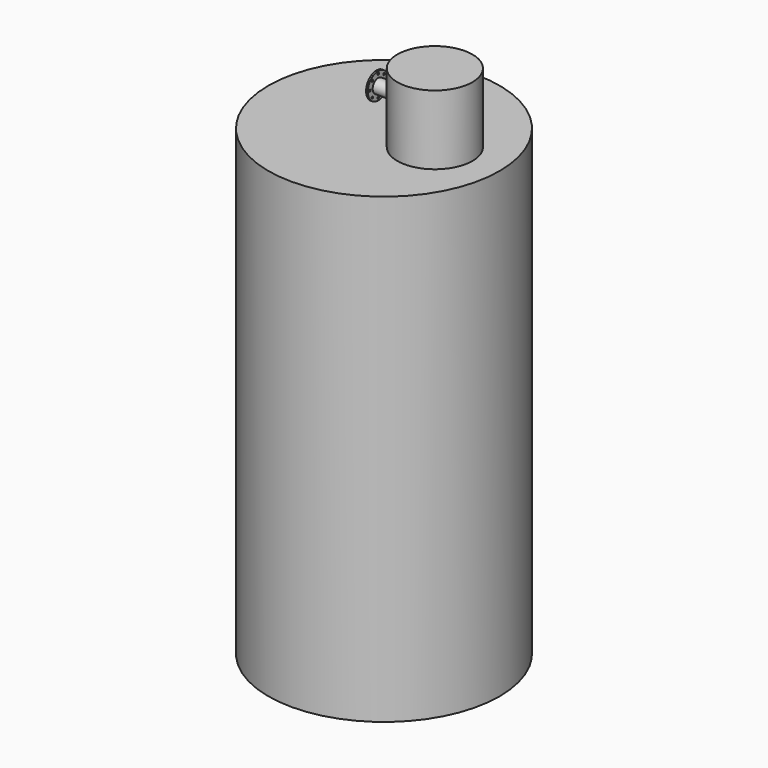
from build123d import *

# Parameters (mm, degrees)
F0_R      = 1000
F1_DEPTH  = 4000
F2_R      = 325
F3_DEPTH  = 600
F5_R      = 60
F6_DEPTH  = 250
F7_R      = 112.5
F7_R_2    = 60
F8_DEPTH  = 15
F9_R      = 50
F10_DEPTH = 500
F11_R     = 9
F12_DEPTH = 25


with BuildPart() as f1:
    # F0 (on Top) → F1 (new body)
    with BuildSketch(Plane.XY):
        Circle(F0_R)
    extrude(amount=F1_DEPTH)

    # F2 (on face) → F3 (join)
    with BuildSketch(Plane.XY.offset(4000)):
        with Locations((439.880490303, 0)):
            Circle(F2_R)
    extrude(amount=F3_DEPTH)

    # F5 (on offset) → F6 (join)
    with BuildSketch(Plane.YZ.offset(200)):
        with Locations((0, 4307.6138496399)):
            Circle(F5_R)
    extrude(amount=-F6_DEPTH)

    # F7 (on face) → F8 (join)
    with BuildSketch(Plane(origin=(-50, 0, 0), x_dir=(0, -1, 0), z_dir=(-1, 0, 0))):
        with Locations((0, 4307.6138496399)):
            Circle(F7_R)
        with Locations((0, 4307.6138496399)):
            Circle(F7_R_2, mode=Mode.SUBTRACT)
        with Locations((0, 4307.6138496399)):
            Circle(F7_R_2)
    extrude(amount=F8_DEPTH)

    # F9 (on face) → F10 (cut)
    with BuildSketch(Plane(origin=(-65, 0, 0), x_dir=(0, -1, 0), z_dir=(-1, 0, 0))):
        with Locations((0, 4307.6138496399)):
            Circle(F9_R)
    extrude(amount=-F10_DEPTH, mode=Mode.SUBTRACT)

    # F11 (on face) → F12 (cut)
    with BuildSketch(Plane(origin=(-65, 0, 0), x_dir=(0, -1, 0), z_dir=(-1, 0, 0))):
        with Locations((0, 4397.6138496399)):
            Circle(F11_R)
        with Locations((-63.6396103068, 4371.2534599467)):
            Circle(F11_R)
        with Locations((-90, 4307.6138496399)):
            Circle(F11_R)
        with Locations((-63.6396103068, 4243.9742393331)):
            Circle(F11_R)
        with Locations((0, 4217.6138496399)):
            Circle(F11_R)
        with Locations((63.6396103068, 4243.9742393331)):
            Circle(F11_R)
        with Locations((90, 4307.6138496399)):
            Circle(F11_R)
        with Locations((63.6396103068, 4371.2534599467)):
            Circle(F11_R)
    extrude(amount=-F12_DEPTH, mode=Mode.SUBTRACT)


solid = f1.part
